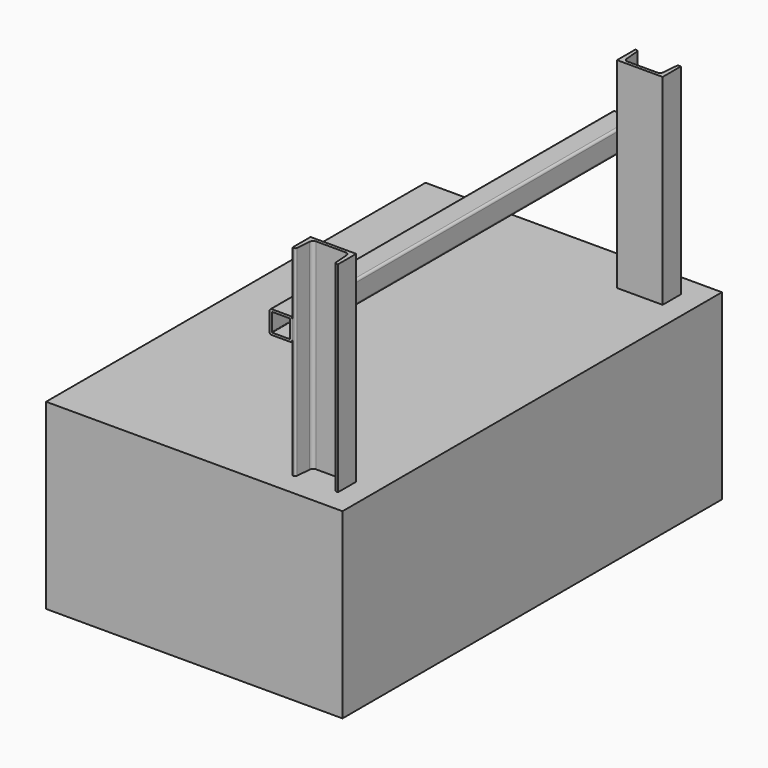
from build123d import *

# Parameters (mm, degrees)
F1_DEPTH  = 440
F2_R      = 4
F3_R      = 8
F6_W      = 650
F6_H      = 1040
F7_DEPTH  = 400
F10_DEPTH = 940


with BuildPart() as f1:
    # F0 (on Top) → F1 (new body)
    with BuildSketch(Plane.XY):
        Polygon((-60, 27.5), (-60, -22.5), (40, -22.5), (40, 27.5), (33.2000380344, 27.5), (29.7599785624, -15.5), (-49.7599785624, -15.5), (-53.2000380344, 27.5), align=None)
    extrude(amount=-F1_DEPTH)

    # F2
    f2_edges = [f1.edges().sort_by_distance(p)[0] for p in [
        (-53.200038, 27.5, -220),
        (33.200038, 27.5, -220),
    ]]
    fillet(f2_edges, radius=F2_R)

    # F3
    f3_edges = [f1.edges().sort_by_distance(p)[0] for p in [
        (-49.759979, -15.5, -220),
        (29.759979, -15.5, -220),
    ]]
    fillet(f3_edges, radius=F3_R)


with BuildPart() as f5_1:
    # F5: instance of F1
    add(f1.part.mirror(Plane(origin=(-10, -442.5, -220), x_dir=(1, 0, 0), z_dir=(0, -1, 0))))


with BuildPart() as f7:
    # F6 (on face) → F7 (new body)
    with BuildSketch(Plane(origin=(0, 0, -440), x_dir=(1, 0, 0), z_dir=(0, 0, -1))):
        with Locations((-235, 442.5)):
            Rectangle(F6_W, F6_H)
    extrude(amount=F7_DEPTH)


with BuildPart() as f10:
    # F9 (on offset) → F10 (new body)
    with BuildSketch(Plane.XZ.offset(912.5)):
        with BuildLine():
            ThreePointArc((-60, -138.6828742802), (-61.4644660941, -135.1473403743), (-65, -133.6828742802))
            Line((-65, -133.6828742802), (-105, -133.6828742802))
            ThreePointArc((-105, -133.6828742802), (-108.5355339059, -135.1473403743), (-110, -138.6828742802))
            Line((-110, -138.6828742802), (-110, -178.6828742802))
            ThreePointArc((-110, -178.6828742802), (-108.5355339059, -182.2184081862), (-105, -183.6828742802))
            Line((-105, -183.6828742802), (-65, -183.6828742802))
            ThreePointArc((-65, -183.6828742802), (-61.4644660941, -182.2184081862), (-60, -178.6828742802))
            Line((-60, -178.6828742802), (-60, -138.6828742802))
        make_face()
        with BuildLine():
            ThreePointArc((-105, -139.6828742802), (-104.7071067812, -138.975767499), (-104, -138.6828742802))
            Line((-104, -138.6828742802), (-66, -138.6828742802))
            ThreePointArc((-66, -138.6828742802), (-65.2928932188, -138.975767499), (-65, -139.6828742802))
            Line((-65, -139.6828742802), (-65, -177.6828742802))
            ThreePointArc((-65, -177.6828742802), (-65.2928932188, -178.3899810614), (-66, -178.6828742802))
            Line((-66, -178.6828742802), (-104, -178.6828742802))
            ThreePointArc((-104, -178.6828742802), (-104.7071067812, -178.3899810614), (-105, -177.6828742802))
            Line((-105, -177.6828742802), (-105, -139.6828742802))
        make_face(mode=Mode.SUBTRACT)
    extrude(amount=-F10_DEPTH)


solid = Compound([f1.part, f5_1.part, f7.part, f10.part])
